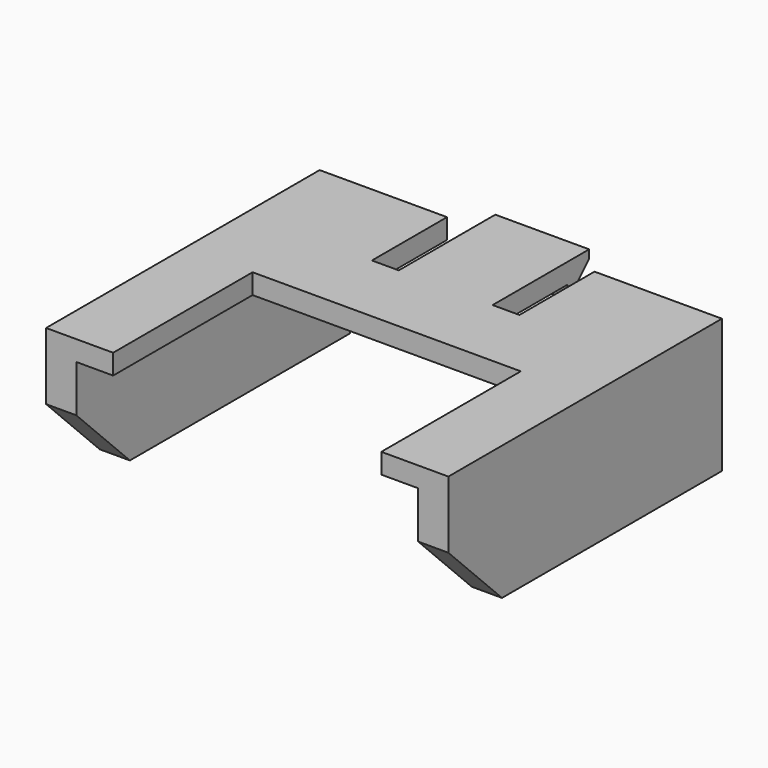
from build123d import *

# Parameters (mm, degrees)
SKETCH_W        = 30
SKETCH_H        = 25.5
PAD_DEPTH       = 10
SKETCH001_W     = 25.5
SKETCH001_H     = 30
POCKET_DEPTH    = 8.5
SKETCH002_W     = 20
SKETCH002_H     = 13
POCKET001_DEPTH = 5
CHAMFER_SIZE    = 5
SKETCH003_W     = 2
SKETCH003_H     = 7
POCKET002_DEPTH = 5
SKETCH004_W     = 7
SKETCH004_H     = 2.5
PAD001_DEPTH    = 2
CHAMFER001_SIZE = 1.9


with BuildPart() as part:
    # Sketch → Pad (new body)
    with BuildSketch(Plane.XY):
        with Locations((0, 12.75)):
            Rectangle(SKETCH_W, SKETCH_H)
    extrude(amount=PAD_DEPTH)

    # Sketch001 (on Face5 of Pad) → Pocket (cut)
    with BuildSketch(Plane(origin=(0, 0, 0), x_dir=(1, 0, 0), z_dir=(0, 0, -1))):
        with Locations((0, -15)):
            Rectangle(SKETCH001_W, SKETCH001_H)
    extrude(amount=-POCKET_DEPTH, mode=Mode.SUBTRACT)

    # Sketch002 → Pocket001 (cut)
    with BuildSketch(Plane.XY.offset(10)):
        with Locations((0, 6.5)):
            Rectangle(SKETCH002_W, SKETCH002_H)
    extrude(amount=-POCKET001_DEPTH, mode=Mode.SUBTRACT)

    # Chamfer
    chamfer_edges = [part.edges().sort_by_distance(p)[0] for p in [
        (13.875, 0, 0),
        (-13.875, 0, 0),
    ]]
    chamfer(chamfer_edges, length=CHAMFER_SIZE)

    # Sketch003 (on Face7 of Chamfer) → Pocket002 (cut)
    with BuildSketch(Plane.XY.offset(10)):
        with Locations((-4.5, 22)):
            Rectangle(SKETCH003_W, SKETCH003_H)
        with Locations((4.5, 22)):
            Rectangle(SKETCH003_W, SKETCH003_H)
    extrude(amount=-POCKET002_DEPTH, mode=Mode.SUBTRACT)

    # Sketch004 (on Face17 of Pocket002) → Pad001 (join)
    with BuildSketch(Plane(origin=(0, 25.5, 0), x_dir=(-1, 0, 0), z_dir=(0, 1, 0))):
        with Locations((0, 8.75)):
            Rectangle(SKETCH004_W, SKETCH004_H)
    extrude(amount=PAD001_DEPTH)

    # Chamfer001
    chamfer001_edges = [part.edges().sort_by_distance(p)[0] for p in [
        (0, 27.5, 7.5),
    ]]
    chamfer(chamfer001_edges, length=CHAMFER001_SIZE)


solid = part.part
